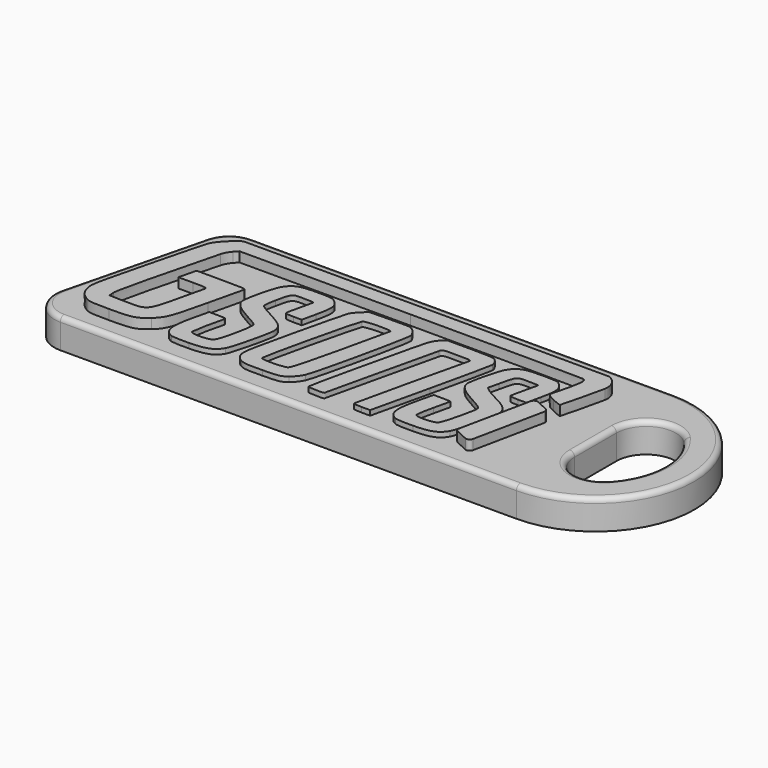
from build123d import *

# Parameters (mm, degrees)
F1_DEPTH = 3
F3_DEPTH = 1
F5_DEPTH = 0.5
F6_R     = 3
F7_R     = 3
F8_R     = 0.5


with BuildPart() as f1:
    # F0 (on Top) → F1 (new body)
    with BuildSketch(Plane.XY):
        with BuildLine():
            Line((25, 10), (-20.0134399431, 10))
            Line((-20.0134399431, 10), (-25, -10))
            Line((-25, -10), (25, -10))
            ThreePointArc((25, -10), (35, 0), (25, 10))
        make_face()
        with BuildLine():
            Line((25, -7), (25, 0))
            Line((25, 0), (25, 7))
            ThreePointArc((25, 7), (32, 0), (25, -7))
        make_face(mode=Mode.SUBTRACT)
    extrude(amount=-F1_DEPTH)

    # F6
    f6_edges = [f1.edges().sort_by_distance(p)[0] for p in [
        (-20.01344, 10, -1.5),
        (-25, -10, -1.5),
    ]]
    fillet(f6_edges, radius=F6_R)

    # F7
    f7_edges = [f1.edges().sort_by_distance(p)[0] for p in [
        (25, 7, -1.5),
        (25, -7, -1.5),
    ]]
    fillet(f7_edges, radius=F7_R)

    # F8
    f8_edges = [f1.edges().sort_by_distance(p)[0] for p in [
        (25, 0, 0),
        (26.93934, 5.451994, 0),
        (26.93934, -5.451994, 0),
        (32, 0, 0),
        (-22.325766, 0.725766, 0),
        (-19.516567, 9.364032, 0),
        (-23.524207, -8.846984, 0),
        (3.665208, 10, 0),
        (1.919912, -10, 0),
        (35, 0, 0),
    ]]
    fillet(f8_edges, radius=F8_R)


with BuildPart() as f3:
    # F2 (on Top) → F3 (new body)
    with BuildSketch(Plane.XY):
        with BuildLine():
            add(Edge.make_bspline(
                [(-20.2278443585, -7.8019872921), (-20.8846843177, -7.3962619651), (-21.149469387, -7.0405078128), (-21.3422047356, -6.3047798428)],
                knots=[0, 0, 0, 0, 1, 1, 1, 1], degree=3))
            add(Edge.make_bspline(
                [(-17.7529183564, -8.0758215776), (-19.4735940883, -8.0753485656), (-19.8532992888, -8.0333426447), (-20.2278443585, -7.8019872921)],
                knots=[0, 0, 0, 0, 1, 1, 1, 1], degree=3))
            add(Edge.make_bspline(
                [(-14.1988655058, -7.1870711609), (-15.0955080185, -7.9743339814), (-15.5037882803, -8.0764314112), (-17.7529183564, -8.0758215776)],
                knots=[0, 0, 0, 0, 1, 1, 1, 1], degree=3))
            add(Edge.make_bspline(
                [(-12.3321212175, -2.3639768732), (-13.1378633372, -5.8612453895), (-13.3690036844, -6.4584417213), (-14.1988655058, -7.1870711609)],
                knots=[0, 0, 0, 0, 1, 1, 1, 1], degree=3))
            add(Edge.make_bspline(
                [(-11.5129404198, 1.1038839244), (-11.5567613218, 0.9619401219), (-11.9253929041, -0.5985962039), (-12.3321212175, -2.3639768732)],
                knots=[0, 0, 0, 0, 1, 1, 1, 1], degree=3))
            add(Edge.make_bspline(
                [(-13.9474520998, 1.3619630577), (-11.6209535708, 1.3619630577), (-11.439214215, 1.3426974529), (-11.5129404198, 1.1038839244)],
                knots=[0, 0, 0, 0, 1, 1, 1, 1], degree=3))
            Line((-13.9474520998, 1.3619630577), (-16.4616380962, 1.3619630577))
            Line((-16.4616380962, 1.3619630577), (-16.5524971635, 0.9564097351))
            add(Edge.make_bspline(
                [(-16.7646304708, 0.0715662745), (-16.6979301972, 0.335176353), (-16.6024700135, 0.7333552681), (-16.5524971635, 0.9564097351)],
                knots=[0, 0, 0, 0, 1, 1, 1, 1], degree=3))
            Line((-16.7646304708, 0.0715662745), (-16.8859047109, -0.407724422))
            Line((-16.8859047109, -0.407724422), (-15.4131146203, -0.407724422))
            add(Edge.make_bspline(
                [(-14.0200368211, -0.6658041137), (-13.9477972254, -0.4319206321), (-14.0784060526, -0.407724422), (-15.4131146203, -0.407724422)],
                knots=[0, 0, 0, 0, 1, 1, 1, 1], degree=3))
            add(Edge.make_bspline(
                [(-14.5509841115, -2.9147828483), (-14.3028047225, -1.8197874812), (-14.063878386, -0.8077479162), (-14.0200368211, -0.6658041137)],
                knots=[0, 0, 0, 0, 1, 1, 1, 1], degree=3))
            add(Edge.make_bspline(
                [(-17.5883637994, -6.27502644), (-15.3287442499, -6.3341881201), (-15.3250668191, -6.3301186534), (-14.5509841115, -2.9147828483)],
                knots=[0, 0, 0, 0, 1, 1, 1, 1], degree=3))
            Line((-17.5883637994, -6.27502644), (-19.1955267086, -6.2329468029))
            Line((-19.1955267086, -6.2329468029), (-19.2406259157, -5.6911794333))
            add(Edge.make_bspline(
                [(-16.7528314188, 4.7690247831), (-18.5001990994, -1.9694569599), (-19.2781485542, -5.2404314077), (-19.2406259157, -5.6911794333)],
                knots=[0, 0, 0, 0, 1, 1, 1, 1], degree=3))
            add(Edge.make_bspline(
                [(-16.2532497928, 5.6907374891), (-16.4522420791, 5.4760207657), (-16.6770540062, 5.0612501318), (-16.7528314188, 4.7690247831)],
                knots=[0, 0, 0, 0, 1, 1, 1, 1], degree=3))
            Line((-16.2532497928, 5.6907374891), (-15.8914453314, 6.0811304148))
            Line((-15.8914453314, 6.0811304148), (1.4317282221, 6.0811304148))
            add(Edge.make_bspline(
                [(18.9881748651, 5.9916155504), (18.8598752522, 6.040849005), (10.9594744863, 6.0811304148), (1.4317282221, 6.0811304148)],
                knots=[0, 0, 0, 0, 1, 1, 1, 1], degree=3))
            add(Edge.make_bspline(
                [(19.221448513, 5.4631600893), (19.221448513, 5.7273733), (19.1285901743, 5.9377335105), (18.9881748651, 5.9916155504)],
                knots=[0, 0, 0, 0, 1, 1, 1, 1], degree=3))
            add(Edge.make_bspline(
                [(18.5494118573, 2.3850812669), (18.8549641928, 3.425830481), (19.221448513, 5.1044047961), (19.221448513, 5.4631600893)],
                knots=[0, 0, 0, 0, 1, 1, 1, 1], degree=3))
            add(Edge.make_bspline(
                [(19.3660494477, 1.7320220528), (18.7369518925, 2.0327029792), (18.5012874957, 2.221161674), (18.5494118573, 2.3850812669)],
                knots=[0, 0, 0, 0, 1, 1, 1, 1], degree=3))
            add(Edge.make_bspline(
                [(20.306940081, 1.372535741), (20.2758056172, 1.3377953288), (19.8524046088, 1.4995648671), (19.3660494477, 1.7320220528)],
                knots=[0, 0, 0, 0, 1, 1, 1, 1], degree=3))
            add(Edge.make_bspline(
                [(21.3576962628, 5.7340373519), (21.1661682955, 4.7741659263), (20.3612660932, 1.4331533151), (20.306940081, 1.372535741)],
                knots=[0, 0, 0, 0, 1, 1, 1, 1], degree=3))
            add(Edge.make_bspline(
                [(20.3755262595, 7.5840514243), (21.1201342336, 7.1865990601), (21.5034604608, 6.4645655408), (21.3576962628, 5.7340373519)],
                knots=[0, 0, 0, 0, 1, 1, 1, 1], degree=3))
            Line((20.3755262595, 7.5840514243), (-16.6950971515, 7.6051694266))
            add(Edge.make_bspline(
                [(-18.6423037372, 5.5649721483), (-18.3970646174, 6.184904887), (-17.4035708078, 7.2258434176), (-16.6950971515, 7.6051694266)],
                knots=[0, 0, 0, 0, 1, 1, 1, 1], degree=3))
            add(Edge.make_bspline(
                [(-20.166438245, -0.2602502326), (-19.4244242976, 2.7002904184), (-18.7385636295, 5.3216401547), (-18.6423037372, 5.5649721483)],
                knots=[0, 0, 0, 0, 1, 1, 1, 1], degree=3))
            add(Edge.make_bspline(
                [(-21.3422047356, -6.3047798428), (-21.5059422718, -5.6797467282), (-21.4407414518, -5.3445543563), (-20.166438245, -0.2602502326)],
                knots=[0, 0, 0, 0, 1, 1, 1, 1], degree=3))
        make_face()
    extrude(amount=F3_DEPTH)


with BuildPart() as f3b:
    # F2 (on Top) → F3, piece 2 (new body)
    with BuildSketch(Plane.XY):
        with BuildLine():
            ThreePointArc((18.6392158016, 0.6790695623), (18.3056621063, 0.6720969061), (18.1028066996, 0.4072264291))
            Line((18.1028066996, 0.4072264291), (16.6059681984, -6.7767061579))
            ThreePointArc((16.6059681984, -6.7767061579), (16.6391835268, -7.0287264896), (16.8222357297, -7.2051050503))
            Line((16.8222357297, -7.2051050503), (18.0397810469, -7.7640450468))
            ThreePointArc((18.0397810469, -7.7640450468), (18.3740612479, -7.7577551806), (18.5773586189, -7.4923253515))
            Line((18.5773586189, -7.4923253515), (20.0682504475, -0.3011003337))
            ThreePointArc((20.0682504475, -0.3011003337), (20.0345999095, -0.0487492775), (19.8508144463, 0.1274219965))
            Line((19.8508144463, 0.1274219965), (18.6392158016, 0.6790695623))
        make_face()
    extrude(amount=F3_DEPTH)


with BuildPart() as f5:
    # F4 (on Top) → F5 (new body)
    with BuildSketch(Plane.XY):
        with BuildLine():
            add(Edge.make_bspline(
                [(-11.6742490197, -7.8186243758), (-12.6407054993, -7.3968533578), (-12.7615955589, -6.5738472298), (-12.2019106697, -4.2263544225)],
                knots=[0, 0, 0, 0, 1, 1, 1, 1], degree=3))
            add(Edge.make_bspline(
                [(-9.8308406318, -7.9103325935), (-10.6824952813, -7.9306858881), (-11.5120291397, -7.8894169389), (-11.6742490197, -7.8186243758)],
                knots=[0, 0, 0, 0, 1, 1, 1, 1], degree=3))
            add(Edge.make_bspline(
                [(-6.9933190512, -6.7968064432), (-7.4804254519, -7.6244460368), (-8.103744683, -7.8690552674), (-9.8308406318, -7.9103325935)],
                knots=[0, 0, 0, 0, 1, 1, 1, 1], degree=3))
            add(Edge.make_bspline(
                [(-5.8490769948, -2.1307379651), (-5.8490769948, -2.7820970065), (-6.7194978221, -6.3315561281), (-6.9933190512, -6.7968064432)],
                knots=[0, 0, 0, 0, 1, 1, 1, 1], degree=3))
            add(Edge.make_bspline(
                [(-7.6075802117, -0.2136559668), (-6.2236008487, -0.9486385349), (-5.8490769948, -1.3569374879), (-5.8490769948, -2.1307379651)],
                knots=[0, 0, 0, 0, 1, 1, 1, 1], degree=3))
            add(Edge.make_bspline(
                [(-9.1035328518, 0.6892281589), (-9.0150284659, 0.5825864107), (-8.3418496382, 0.1762895035), (-7.6075802117, -0.2136559668)],
                knots=[0, 0, 0, 0, 1, 1, 1, 1], degree=3))
            add(Edge.make_bspline(
                [(-9.0122875898, 2.0336351459), (-9.1964216343, 1.1935052438), (-9.2210375833, 0.8308132851), (-9.1035328518, 0.6892281589)],
                knots=[0, 0, 0, 0, 1, 1, 1, 1], degree=3))
            add(Edge.make_bspline(
                [(-7.4660900221, 3.700301143), (-8.6663536202, 3.700301143), (-8.6410100099, 3.7276205519), (-9.0122875898, 2.0336351459)],
                knots=[0, 0, 0, 0, 1, 1, 1, 1], degree=3))
            add(Edge.make_bspline(
                [(-6.4389684831, 3.6359078666), (-6.4389684831, 3.6713253693), (-6.9011735666, 3.700301143), (-7.4660900221, 3.700301143)],
                knots=[0, 0, 0, 0, 1, 1, 1, 1], degree=3))
            add(Edge.make_bspline(
                [(-6.7328810935, 2.3455220509), (-6.5712302747, 3.0198161047), (-6.4389684831, 3.600490364), (-6.4389684831, 3.6359078666)],
                knots=[0, 0, 0, 0, 1, 1, 1, 1], degree=3))
            add(Edge.make_bspline(
                [(-7.0278262792, 0.9351899572), (-7.0272432566, 1.0365772426), (-6.8945330292, 1.6712268803), (-6.7328810935, 2.3455220509)],
                knots=[0, 0, 0, 0, 1, 1, 1, 1], degree=3))
            add(Edge.make_bspline(
                [(-6.1790990283, 0.7508481691), (-6.7611437256, 0.7508481691), (-7.0285338362, 0.8089248094), (-7.0278262792, 0.9351899572)],
                knots=[0, 0, 0, 0, 1, 1, 1, 1], degree=3))
            Line((-6.1790990283, 0.7508481691), (-5.3293375267, 0.7508481691))
            Line((-5.3293375267, 0.7508481691), (-5.0106447828, 2.1887062984))
            add(Edge.make_bspline(
                [(-5.2880032387, 4.8079630023), (-4.6883645516, 4.3034011076), (-4.6410224509, 3.856335623), (-5.0106447828, 2.1887062984)],
                knots=[0, 0, 0, 0, 1, 1, 1, 1], degree=3))
            add(Edge.make_bspline(
                [(-7.2808452191, 5.1750287469), (-5.8374455834, 5.1750287469), (-5.692508636, 5.1483331275), (-5.2880032387, 4.8079630023)],
                knots=[0, 0, 0, 0, 1, 1, 1, 1], degree=3))
            add(Edge.make_bspline(
                [(-10.1013843136, 4.0984184226), (-9.5749400861, 4.9687571577), (-9.0345440845, 5.1750287469), (-7.2808452191, 5.1750287469)],
                knots=[0, 0, 0, 0, 1, 1, 1, 1], degree=3))
            add(Edge.make_bspline(
                [(-11.010621933, 0.4560800122), (-11.010621933, 1.1661082102), (-10.4031794557, 3.5994784513), (-10.1013843136, 4.0984184226)],
                knots=[0, 0, 0, 0, 1, 1, 1, 1], degree=3))
            add(Edge.make_bspline(
                [(-9.1278528219, -1.4256258087), (-10.4531038326, -0.7203824164), (-11.010621933, -0.1631792822), (-11.010621933, 0.4560800122)],
                knots=[0, 0, 0, 0, 1, 1, 1, 1], degree=3))
            add(Edge.make_bspline(
                [(-7.7783952067, -2.2576749291), (-7.8715308244, -2.1454536998), (-8.4787867792, -1.771031484), (-9.1278528219, -1.4256258087)],
                knots=[0, 0, 0, 0, 1, 1, 1, 1], degree=3))
            add(Edge.make_bspline(
                [(-8.6200189645, -6.217236241), (-8.2708967998, -5.8154069395), (-7.5684529209, -2.5106408162), (-7.7783952067, -2.2576749291)],
                knots=[0, 0, 0, 0, 1, 1, 1, 1], degree=3))
            add(Edge.make_bspline(
                [(-10.8027414473, -6.2725479919), (-10.6793484115, -6.5941061463), (-8.9084665762, -6.5492307224), (-8.6200189645, -6.217236241)],
                knots=[0, 0, 0, 0, 1, 1, 1, 1], degree=3))
            add(Edge.make_bspline(
                [(-10.1780283232, -3.0465731213), (-10.4886246486, -4.1580519912), (-10.8661166681, -6.1073945702), (-10.8027414473, -6.2725479919)],
                knots=[0, 0, 0, 0, 1, 1, 1, 1], degree=3))
            add(Edge.make_bspline(
                [(-10.9825044981, -2.7884962932), (-10.2184942204, -2.7884962932), (-10.1151724617, -2.8216409015), (-10.1780283232, -3.0465731213)],
                knots=[0, 0, 0, 0, 1, 1, 1, 1], degree=3))
            Line((-10.9825044981, -2.7884962932), (-11.859098998, -2.7884962932))
            Line((-11.859098998, -2.7884962932), (-12.2019106697, -4.2263544225))
        make_face()
    extrude(amount=F5_DEPTH)


with BuildPart() as f5b:
    # F4 (on Top) → F5, piece 2 (new body)
    with BuildSketch(Plane.XY):
        with BuildLine():
            add(Edge.make_bspline(
                [(-4.6692956936, -7.6995693852), (-5.0297611092, -7.5140246942), (-5.2386484815, -7.2709109945), (-5.3618170201, -6.893583718)],
                knots=[0, 0, 0, 0, 1, 1, 1, 1], degree=3))
            add(Edge.make_bspline(
                [(-2.3718417455, -7.9207772971), (-3.8580030693, -7.9578829963), (-4.2386609458, -7.9212503049), (-4.6692956936, -7.6995693852)],
                knots=[0, 0, 0, 0, 1, 1, 1, 1], degree=3))
            add(Edge.make_bspline(
                [(-0.0316233172, -7.4498816037), (-0.5666056976, -7.8580420609), (-0.6668297302, -7.8782093915), (-2.3718417455, -7.9207772971)],
                knots=[0, 0, 0, 0, 1, 1, 1, 1], degree=3))
            add(Edge.make_bspline(
                [(0.7827882542, -6.4175720576), (0.642268652, -6.7508090918), (0.2757831377, -7.2153479408), (-0.0316233172, -7.4498816037)],
                knots=[0, 0, 0, 0, 1, 1, 1, 1], degree=3))
            add(Edge.make_bspline(
                [(3.0898659834, 4.0543628043), (3.2038301373, 3.6002949062), (1.2309187044, -5.3548442596), (0.7827882542, -6.4175720576)],
                knots=[0, 0, 0, 0, 1, 1, 1, 1], degree=3))
            add(Edge.make_bspline(
                [(2.591940717, 4.8292606371), (2.8094181782, 4.6277090733), (3.0334847994, 4.2790046297), (3.0898659834, 4.0543628043)],
                knots=[0, 0, 0, 0, 1, 1, 1, 1], degree=3))
            add(Edge.make_bspline(
                [(0.1001140891, 5.1485034549), (2.1590520622, 5.1948716176), (2.2035963249, 5.1891642513), (2.591940717, 4.8292606371)],
                knots=[0, 0, 0, 0, 1, 1, 1, 1], degree=3))
            Line((0.1001140891, 5.1485034549), (-1.9963015114, 5.1012920316))
            Line((-1.9963015114, 5.1012920316), (-2.4606549547, 4.6588745323))
            add(Edge.make_bspline(
                [(-3.0824842393, 3.9256650452), (-2.9958713259, 4.0856003034), (-2.7160478686, 4.4155447122), (-2.4606549547, 4.6588745323)],
                knots=[0, 0, 0, 0, 1, 1, 1, 1], degree=3))
            add(Edge.make_bspline(
                [(-4.3890735025, -1.3592036809), (-3.757061986, 1.3875383856), (-3.1690977111, 3.7657286701), (-3.0824842393, 3.9256650452)],
                knots=[0, 0, 0, 0, 1, 1, 1, 1], degree=3))
            add(Edge.make_bspline(
                [(-5.3618170201, -6.893583718), (-5.5218354875, -6.4033650715), (-5.4316669184, -5.8903521421), (-4.3890735025, -1.3592036809)],
                knots=[0, 0, 0, 0, 1, 1, 1, 1], degree=3))
        make_face()
        with BuildLine():
            add(Edge.make_bspline(
                [(-1.0784129319, -6.288568826), (-0.8944648515, -6.1540637379), (-0.515313675, -4.7689769671), (0.2770279243, -1.3369633812)],
                knots=[0, 0, 0, 0, 1, 1, 1, 1], degree=3))
            add(Edge.make_bspline(
                [(-3.7000558957, -6.3450996748), (-3.5735601077, -6.5497763287), (-1.3706719697, -6.5022750695), (-1.0784129319, -6.288568826)],
                knots=[0, 0, 0, 0, 1, 1, 1, 1], degree=3))
            add(Edge.make_bspline(
                [(-1.4081194407, 3.4993097053), (-1.6176216673, 3.2468749048), (-3.8095440671, -6.1679473811), (-3.7000558957, -6.3450996748)],
                knots=[0, 0, 0, 0, 1, 1, 1, 1], degree=3))
            add(Edge.make_bspline(
                [(1.3770836849, 3.5641017155), (1.3770836849, 3.7922824431), (-1.2150189115, 3.731982052), (-1.4081194407, 3.4993097053)],
                knots=[0, 0, 0, 0, 1, 1, 1, 1], degree=3))
            add(Edge.make_bspline(
                [(0.2770279243, -1.3369633812), (0.882058453, 1.2837117874), (1.3770836849, 3.4891911368), (1.3770836849, 3.5641017155)],
                knots=[0, 0, 0, 0, 1, 1, 1, 1], degree=3))
        make_face(mode=Mode.SUBTRACT)
    extrude(amount=F5_DEPTH)


with BuildPart() as f5c:
    # F4 (on Top) → F5, piece 3 (new body)
    with BuildSketch(Plane.XY):
        with BuildLine():
            add(Edge.make_bspline(
                [(2.2191318652, -7.8394344832), (2.1860246732, -7.7786030054), (2.6131657532, -5.7711301747), (3.1683355685, -3.3783866646)],
                knots=[0, 0, 0, 0, 1, 1, 1, 1], degree=3))
            add(Edge.make_bspline(
                [(3.8841180426, -7.8797758458), (3.8841180426, -7.9970164301), (2.2837887304, -7.9582420801), (2.2191318652, -7.8394344832)],
                knots=[0, 0, 0, 0, 1, 1, 1, 1], degree=3))
            add(Edge.make_bspline(
                [(6.4874812392, 3.3684875997), (6.292964479, 2.5919836626), (3.8841180426, -7.8158410574), (3.8841180426, -7.8797758458)],
                knots=[0, 0, 0, 0, 1, 1, 1, 1], degree=3))
            add(Edge.make_bspline(
                [(8.0392789506, 3.700301143), (6.6391486346, 3.700301143), (6.5667214862, 3.6848086033), (6.4874812392, 3.3684875997)],
                knots=[0, 0, 0, 0, 1, 1, 1, 1], degree=3))
            add(Edge.make_bspline(
                [(9.4285105426, 3.4422243149), (9.5004914888, 3.6760548884), (9.3699675959, 3.700301143), (8.0392789506, 3.700301143)],
                knots=[0, 0, 0, 0, 1, 1, 1, 1], degree=3))
            add(Edge.make_bspline(
                [(6.8335710165, -7.8325096943), (6.8335710165, -7.6988473084), (9.3065985181, 3.0461889396), (9.4285105426, 3.4422243149)],
                knots=[0, 0, 0, 0, 1, 1, 1, 1], degree=3))
            add(Edge.make_bspline(
                [(7.6923995239, -7.9500389976), (7.2200445988, -7.9500389976), (6.8335710165, -7.8971520397), (6.8335710165, -7.8325096943)],
                knots=[0, 0, 0, 0, 1, 1, 1, 1], degree=3))
            Line((7.6923995239, -7.9500389976), (8.5512280314, -7.9500389976))
            Line((8.5512280314, -7.9500389976), (9.9049700805, -2.087999732))
            add(Edge.make_bspline(
                [(11.2582324204, 4.1332149281), (11.2585479451, 3.9356668975), (10.649528403, 1.1361205238), (9.9049700805, -2.087999732)],
                knots=[0, 0, 0, 0, 1, 1, 1, 1], degree=3))
            add(Edge.make_bspline(
                [(10.9370998054, 4.833709814), (11.1134590991, 4.6459854898), (11.2579693902, 4.3307629587), (11.2582324204, 4.1332149281)],
                knots=[0, 0, 0, 0, 1, 1, 1, 1], degree=3))
            add(Edge.make_bspline(
                [(8.2201991113, 5.1750287469), (10.5342920983, 5.1750287469), (10.6274411188, 5.1633342305), (10.9370998054, 4.833709814)],
                knots=[0, 0, 0, 0, 1, 1, 1, 1], degree=3))
            Line((8.2201991113, 5.1750287469), (5.8239518814, 5.1750287469))
            Line((5.8239518814, 5.1750287469), (5.3855379152, 4.7366158976))
            add(Edge.make_bspline(
                [(4.5624279154, 2.6351301232), (4.8779950106, 3.9993514999), (5.0259062665, 4.3769848074), (5.3855379152, 4.7366158976)],
                knots=[0, 0, 0, 0, 1, 1, 1, 1], degree=3))
            add(Edge.make_bspline(
                [(3.1683355685, -3.3783866646), (3.7235037083, -0.9856431545), (4.3508449015, 1.7204397909), (4.5624279154, 2.6351301232)],
                knots=[0, 0, 0, 0, 1, 1, 1, 1], degree=3))
        make_face()
    extrude(amount=F5_DEPTH)


with BuildPart() as f5d:
    # F4 (on Top) → F5, piece 4 (new body)
    with BuildSketch(Plane.XY):
        with BuildLine():
            add(Edge.make_bspline(
                [(11.0365425655, -7.8186243758), (10.0700872028, -7.3968533578), (9.9491960263, -6.5738472298), (10.5088814739, -4.2263544225)],
                knots=[0, 0, 0, 0, 1, 1, 1, 1], degree=3))
            add(Edge.make_bspline(
                [(12.8799509534, -7.9103325935), (12.0282968623, -7.9306858881), (11.1987624455, -7.8894169389), (11.0365425655, -7.8186243758)],
                knots=[0, 0, 0, 0, 1, 1, 1, 1], degree=3))
            add(Edge.make_bspline(
                [(15.7174730925, -6.7968064432), (15.2303661333, -7.6244460368), (14.6070485775, -7.8690552674), (12.8799509534, -7.9103325935)],
                knots=[0, 0, 0, 0, 1, 1, 1, 1], degree=3))
            add(Edge.make_bspline(
                [(16.8617140319, -2.1307379651), (16.8617140319, -2.7820970065), (15.9912932046, -6.3315561281), (15.7174730925, -6.7968064432)],
                knots=[0, 0, 0, 0, 1, 1, 1, 1], degree=3))
            add(Edge.make_bspline(
                [(15.2724152382, -0.2978876463), (16.4646667439, -0.8974604362), (16.8617140319, -1.3553514879), (16.8617140319, -2.1307379651)],
                knots=[0, 0, 0, 0, 1, 1, 1, 1], degree=3))
            add(Edge.make_bspline(
                [(13.7796312474, 0.5615506893), (13.9742412688, 0.4038805072), (14.6459943718, 0.0171327256), (15.2724152382, -0.2978876463)],
                knots=[0, 0, 0, 0, 1, 1, 1, 1], degree=3))
            Line((13.7796312474, 0.5615506893), (13.4257935248, 0.8482224277))
            Line((13.4257935248, 0.8482224277), (13.6790855472, 1.9424479628))
            add(Edge.make_bspline(
                [(15.236351608, 3.700301143), (14.0437616812, 3.700301143), (14.1009308392, 3.764835149), (13.6790855472, 1.9424479628)],
                knots=[0, 0, 0, 0, 1, 1, 1, 1], degree=3))
            add(Edge.make_bspline(
                [(16.2718231021, 3.6359078666), (16.2718231021, 3.6713253693), (15.8058607622, 3.700301143), (15.236351608, 3.700301143)],
                knots=[0, 0, 0, 0, 1, 1, 1, 1], degree=3))
            add(Edge.make_bspline(
                [(15.9779110502, 2.3455220509), (16.1395624274, 3.0198161047), (16.2718231021, 3.600490364), (16.2718231021, 3.6359078666)],
                knots=[0, 0, 0, 0, 1, 1, 1, 1], degree=3))
            add(Edge.make_bspline(
                [(15.6829664229, 0.9351899572), (15.6835969138, 1.0365772426), (15.8162596729, 1.6712268803), (15.9779110502, 2.3455220509)],
                knots=[0, 0, 0, 0, 1, 1, 1, 1], degree=3))
            add(Edge.make_bspline(
                [(16.541225869, 0.7508481691), (15.9515544103, 0.7508481691), (15.6822555152, 0.8086897017), (15.6829664229, 0.9351899572)],
                knots=[0, 0, 0, 0, 1, 1, 1, 1], degree=3))
            Line((16.541225869, 0.7508481691), (17.4005195659, 0.7508481691))
            Line((17.4005195659, 0.7508481691), (17.7130576244, 2.2031824578))
            add(Edge.make_bspline(
                [(17.4777454812, 4.7694784883), (18.0270727851, 4.1774017823), (18.060187237, 3.8162623167), (17.7130576244, 2.2031824578)],
                knots=[0, 0, 0, 0, 1, 1, 1, 1], degree=3))
            add(Edge.make_bspline(
                [(15.4874059184, 5.1750287469), (17.05867904, 5.1750287469), (17.1114537493, 5.1642796876), (17.4777454812, 4.7694784883)],
                knots=[0, 0, 0, 0, 1, 1, 1, 1], degree=3))
            add(Edge.make_bspline(
                [(12.6094083885, 4.0984184226), (13.1406016808, 4.9766106501), (13.671014259, 5.1750287469), (15.4874059184, 5.1750287469)],
                knots=[0, 0, 0, 0, 1, 1, 1, 1], degree=3))
            add(Edge.make_bspline(
                [(11.7001696522, 0.4560800122), (11.7001696522, 1.1661082102), (12.3076126879, 3.5994784513), (12.6094083885, 4.0984184226)],
                knots=[0, 0, 0, 0, 1, 1, 1, 1], degree=3))
            add(Edge.make_bspline(
                [(13.5829387633, -1.4256258087), (12.257689428, -0.7203824164), (11.7001696522, -0.1631792822), (11.7001696522, 0.4560800122)],
                knots=[0, 0, 0, 0, 1, 1, 1, 1], degree=3))
            add(Edge.make_bspline(
                [(14.940316885, -2.2672182933), (14.8428253517, -2.1497487442), (14.2320064814, -1.771031484), (13.5829387633, -1.4256258087)],
                knots=[0, 0, 0, 0, 1, 1, 1, 1], degree=3))
            add(Edge.make_bspline(
                [(14.7177139631, -4.2199791492), (15.0336345576, -2.8458916237), (15.0803634795, -2.43596367), (14.940316885, -2.2672182933)],
                knots=[0, 0, 0, 0, 1, 1, 1, 1], degree=3))
            add(Edge.make_bspline(
                [(14.0922022545, -6.217236241), (14.2163101072, -6.0752931479), (14.4977916047, -5.1765270377), (14.7177139631, -4.2199791492)],
                knots=[0, 0, 0, 0, 1, 1, 1, 1], degree=3))
            add(Edge.make_bspline(
                [(11.9105609323, -6.2790891251), (12.0315654744, -6.5944244632), (13.8063972316, -6.5441035864), (14.0922022545, -6.217236241)],
                knots=[0, 0, 0, 0, 1, 1, 1, 1], degree=3))
            add(Edge.make_bspline(
                [(12.2101328821, -4.4963402121), (12.0039539957, -5.3689295035), (11.8691451105, -6.1711640572), (11.9105609323, -6.2790891251)],
                knots=[0, 0, 0, 0, 1, 1, 1, 1], degree=3))
            add(Edge.make_bspline(
                [(12.5850063262, -2.8491557681), (12.5850063262, -2.8825198475), (12.4163128854, -3.623752596), (12.2101328821, -4.4963402121)],
                knots=[0, 0, 0, 0, 1, 1, 1, 1], degree=3))
            add(Edge.make_bspline(
                [(11.7183494567, -2.7884962932), (12.1950105953, -2.7884962932), (12.5850063262, -2.8157933641), (12.5850063262, -2.8491557681)],
                knots=[0, 0, 0, 0, 1, 1, 1, 1], degree=3))
            Line((11.7183494567, -2.7884962932), (10.8516925872, -2.7884962932))
            Line((10.8516925872, -2.7884962932), (10.5088814739, -4.2263544225))
        make_face()
    extrude(amount=F5_DEPTH)


solid = Compound([f1.part, f3.part, f3b.part, f5.part, f5b.part, f5c.part, f5d.part])
